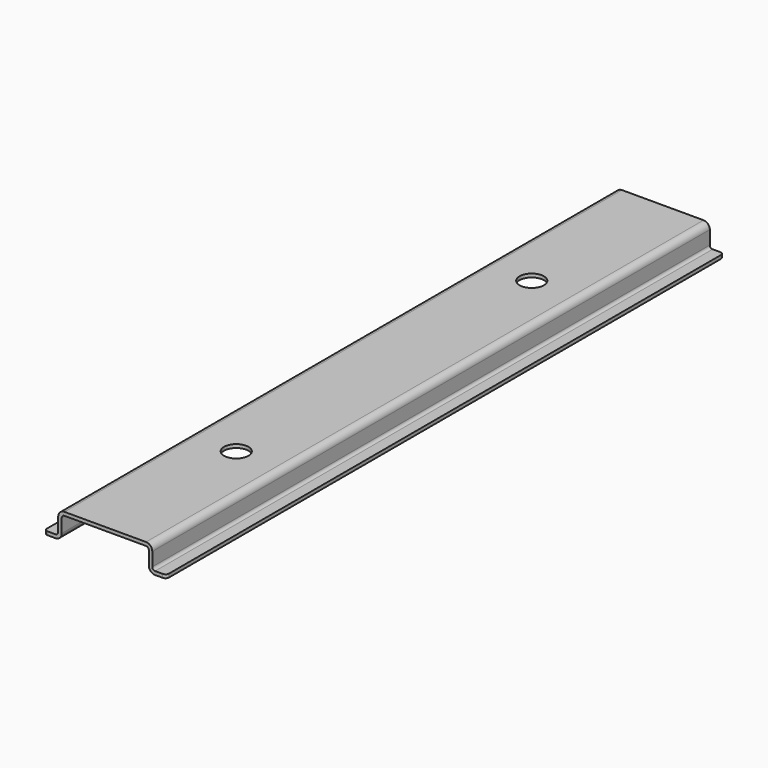
from build123d import *

# Parameters (mm, degrees)
F1_DEPTH = 100
F2_R     = 3.5
F3_DEPTH = 25
F4_R     = 1


with BuildPart() as f1:
    # F0 (on Front) → F1 (new body, symmetric)
    with BuildSketch(Plane.XZ):
        with BuildLine():
            Line((11.7, 7.5), (0, 7.5))
            Line((0, 7.5), (-11.7, 7.5))
            ThreePointArc((-11.7, 7.5), (-12.9727922061, 6.9727922061), (-13.5, 5.7))
            Line((-13.5, 5.7), (-13.5, 1.8))
            ThreePointArc((-13.5, 1.8), (-13.7343145751, 1.2343145751), (-14.3, 1))
            Line((-14.3, 1), (-17.5, 1))
            Line((-17.5, 1), (-17.5, 0))
            Line((-17.5, 0), (-14.3, 0))
            ThreePointArc((-14.3, 0), (-13.0272077939, 0.5272077939), (-12.5, 1.8))
            Line((-12.5, 1.8), (-12.5, 5.7))
            ThreePointArc((-12.5, 5.7), (-12.2656854249, 6.2656854249), (-11.7, 6.5))
            Line((-11.7, 6.5), (0, 6.5))
            Line((0, 6.5), (11.7, 6.5))
            ThreePointArc((11.7, 6.5), (12.2656854249, 6.2656854249), (12.5, 5.7))
            Line((12.5, 5.7), (12.5, 1.8))
            ThreePointArc((12.5, 1.8), (13.0272077939, 0.5272077939), (14.3, 0))
            Line((14.3, 0), (17.5, 0))
            Line((17.5, 0), (17.5, 1))
            Line((17.5, 1), (14.3, 1))
            ThreePointArc((14.3, 1), (13.7343145751, 1.2343145751), (13.5, 1.8))
            Line((13.5, 1.8), (13.5, 5.7))
            ThreePointArc((13.5, 5.7), (12.9727922061, 6.9727922061), (11.7, 7.5))
        make_face()
    extrude(amount=F1_DEPTH, both=True)

    # F2 (on face) → F3 (cut)
    with BuildSketch(Plane.XY.offset(7.5)):
        with Locations((0, 53)):
            Circle(F2_R)
        with Locations((0, -53)):
            Circle(F2_R)
    extrude(amount=-F3_DEPTH, mode=Mode.SUBTRACT)

    # F4
    f4_edges = [f1.edges().sort_by_distance(p)[0] for p in [
        (17.5, 100, 0.5),
        (-17.5, 100, 0.5),
        (17.5, -100, 0.5),
        (-17.5, -100, 0.5),
    ]]
    fillet(f4_edges, radius=F4_R)


solid = f1.part
